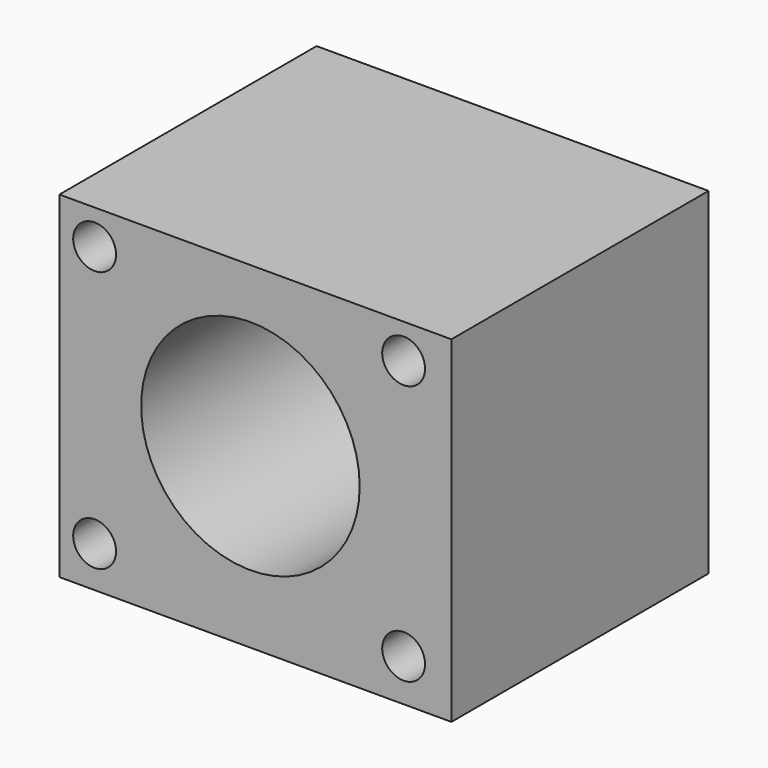
from build123d import *

# Parameters (mm, degrees)
F0_W     = 36.583689
F0_H     = 31.439108
F0_R     = 2
F0_R_2   = 10.199454
F1_DEPTH = 30


with BuildPart() as f1:
    # F0 (on Front) → F1 (new body)
    with BuildSketch(Plane.XZ):
        with Locations((-33.912495, 20.553028)):
            Rectangle(F0_W, F0_H)
        with Locations((-48.920566, 8.656363)):
            Circle(F0_R, mode=Mode.SUBTRACT)
        with Locations((-20.080168, 8.776531)):
            Circle(F0_R, mode=Mode.SUBTRACT)
        with Locations((-34.3802, 21.394206)):
            Circle(F0_R_2, mode=Mode.SUBTRACT)
        with Locations((-48.920566, 33.050535)):
            Circle(F0_R, mode=Mode.SUBTRACT)
        with Locations((-20.080168, 33.050535)):
            Circle(F0_R, mode=Mode.SUBTRACT)
    extrude(amount=F1_DEPTH)


solid = f1.part
